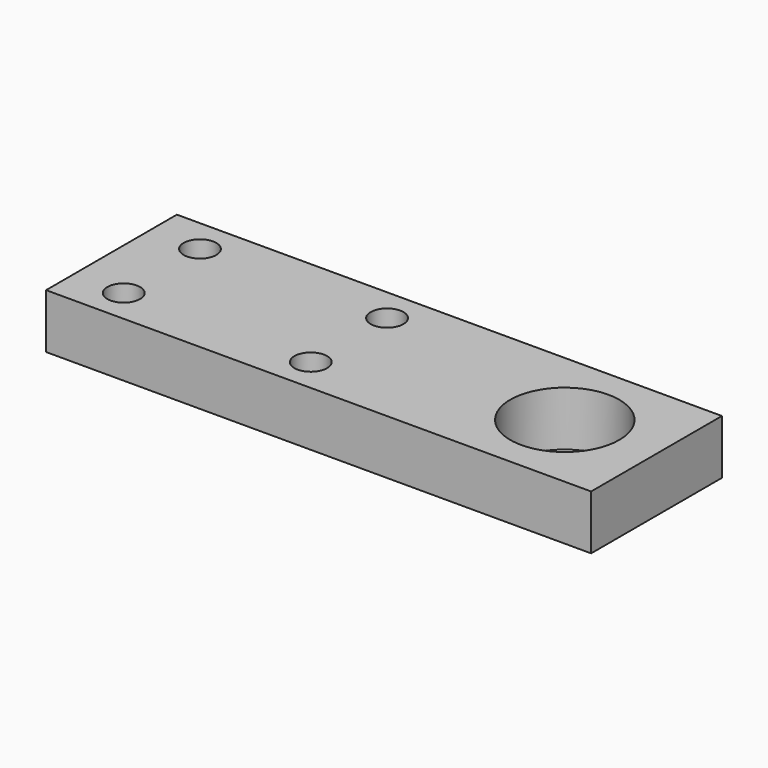
from build123d import *

# Parameters (mm, degrees)
F0_W     = 200
F0_H     = 60
F0_R     = 6
F0_R_2   = 20
F1_DEPTH = 20


with BuildPart() as f1:
    # F0 (on Top) → F1 (new body)
    with BuildSketch(Plane.XY):
        Rectangle(F0_W, F0_H)
        with Locations((-81.518151, -17.5)):
            Circle(F0_R, mode=Mode.SUBTRACT)
        with Locations((-12.871286, -17.5)):
            Circle(F0_R, mode=Mode.SUBTRACT)
        with Locations((-81.518151, 17.5)):
            Circle(F0_R, mode=Mode.SUBTRACT)
        with Locations((-12.871286, 17.5)):
            Circle(F0_R, mode=Mode.SUBTRACT)
        with Locations((66.336643, 0)):
            Circle(F0_R_2, mode=Mode.SUBTRACT)
    extrude(amount=F1_DEPTH)


solid = f1.part
